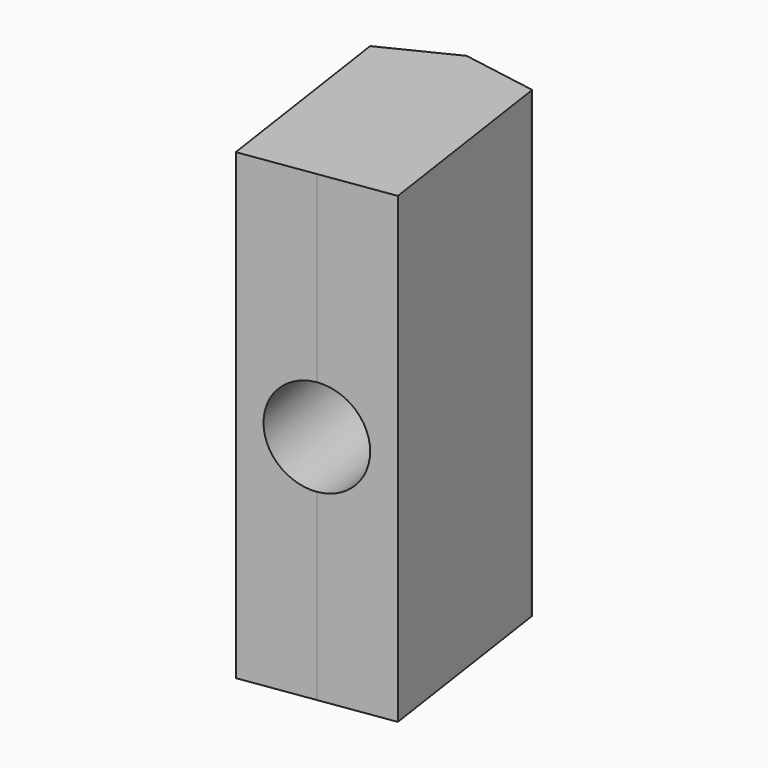
from build123d import *

# Parameters (mm, degrees)
F1_DEPTH = 12
F2_R     = 1.25
F3_DEPTH = 5


with BuildPart() as f1:
    # F0 (on Top) → F1 (new body)
    with BuildSketch(Plane.XY):
        with BuildLine():
            Line((-0.5398019886, 3.6867167497), (-1.340078938, 9.1524143503))
            ThreePointArc((-1.340078938, 9.1524143503), (-2.2779450693, 8.9651249998), (-3.19145978, 8.6819977236))
            Line((-3.19145978, 8.6819977236), (-2.4197573686, 3.4114572922))
            Line((-2.4197573686, 3.4114572922), (-0.5398019886, 3.6867167497))
        make_face()
        with BuildLine():
            Line((1.3401533915, 3.9619762073), (0.5684509802, 9.2325166387))
            ThreePointArc((0.5684509802, 9.2325166387), (-0.3878872523, 9.2418636367), (-1.340078938, 9.1524143503))
            Line((-1.340078938, 9.1524143503), (-0.5398019886, 3.6867167497))
            Line((-0.5398019886, 3.6867167497), (1.3401533915, 3.9619762073))
        make_face()
        with BuildLine():
            ThreePointArc((-1.340078938, 9.1524143503), (-0.3878872523, 9.2418636367), (0.5684509802, 9.2325166387))
            Line((0.5684509802, 9.2325166387), (0.5603502186, 9.2878428764))
            Line((0.5603502186, 9.2878428764), (-1.4090423808, 9.6234179499))
            Line((-1.4090423808, 9.6234179499), (-1.340078938, 9.1524143503))
        make_face()
        with BuildLine():
            ThreePointArc((-3.19145978, 8.6819977236), (-2.2779450693, 8.9651249998), (-1.340078938, 9.1524143503))
            Line((-1.340078938, 9.1524143503), (-1.4090423808, 9.6234179499))
            Line((-1.4090423808, 9.6234179499), (-3.1995605415, 8.7373239614))
            Line((-3.1995605415, 8.7373239614), (-3.19145978, 8.6819977236))
        make_face()
    extrude(amount=F1_DEPTH)

    # F2 (on face) → F3 (cut)
    with BuildSketch(Plane(origin=(-0.5398019886, 3.6867167497, 0), x_dir=(0.9894502, 0.1448733987, 0), z_dir=(0.1448733987, -0.9894502, 0))):
        with Locations((0, 6)):
            Circle(F2_R)
    extrude(amount=-F3_DEPTH, mode=Mode.SUBTRACT)


solid = f1.part
